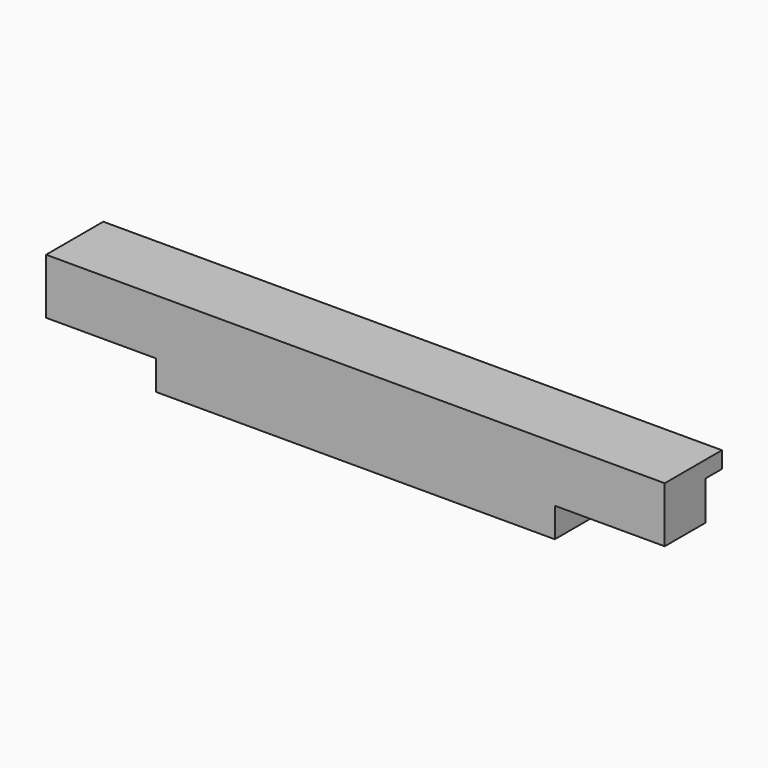
from build123d import *

# Parameters (mm, degrees)
F0_W     = 523.5
F0_H     = 72
F1_DEPTH = 43
F2_W     = 93
F2_H     = 25
F3_DEPTH = 93
F4_W     = 523.5
F4_H     = 14
F5_DEPTH = 17.5


with BuildPart() as f1:
    # F0 (on Front) → F1 (new body)
    with BuildSketch(Plane.XZ):
        Rectangle(F0_W, F0_H)
    extrude(amount=F1_DEPTH)

    # F2 (on face) → F3 (cut)
    with BuildSketch(Plane.XZ.offset(43)):
        with Locations((-215.25, -23.5)):
            Rectangle(F2_W, F2_H)
        with Locations((215.25, -23.5)):
            Rectangle(F2_W, F2_H)
    extrude(amount=-F3_DEPTH, mode=Mode.SUBTRACT)

    # F4 (on face) → F5 (join)
    with BuildSketch(Plane(origin=(0, 0, 0), x_dir=(-1, 0, 0), z_dir=(0, 1, 0))):
        with Locations((0, 29)):
            Rectangle(F4_W, F4_H)
    extrude(amount=F5_DEPTH)


solid = f1.part
